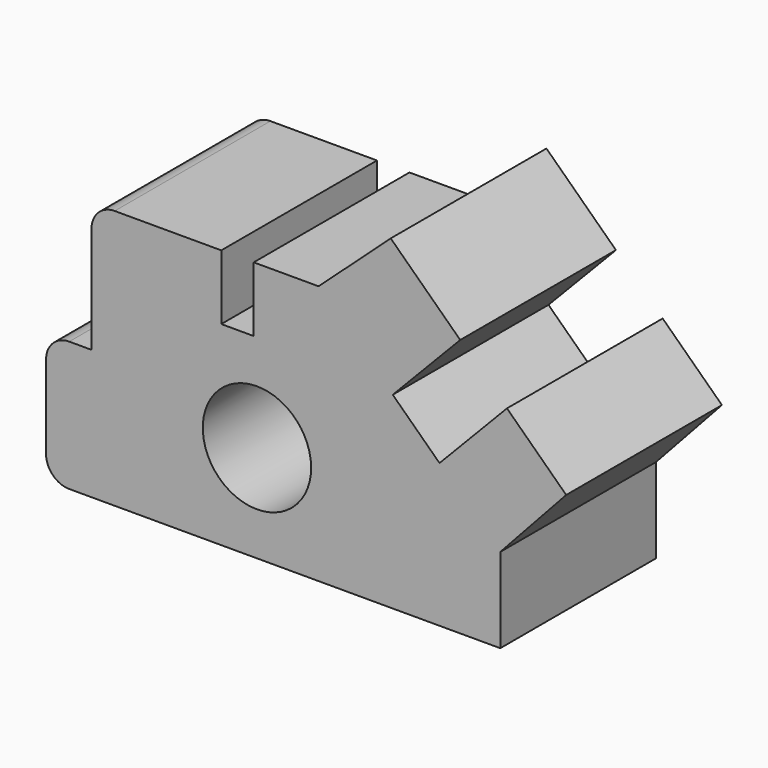
from build123d import *

# Parameters (mm, degrees)
F0_R     = 8.350726
F1_DEPTH = 30


with BuildPart() as f1:
    # F0 (on Front) → F1 (new body)
    with BuildSketch(Plane.XZ):
        with BuildLine():
            Line((-54.655215, -25.540138), (11.771582, -25.540138))
            Line((11.771582, -25.540138), (11.771582, -12.473472))
            Line((11.771582, -12.473472), (21.932656, -1.439317))
            Line((21.932656, -1.439317), (12.803844, 7.34173))
            Line((12.803844, 7.34173), (2.407616, -3.466229))
            Line((2.407616, -3.466229), (-4.799395, 3.466229))
            Line((-4.799395, 3.466229), (5.599293, 14.276747))
            Line((5.599293, 14.276747), (-5.112314, 24.580292))
            Line((-5.112314, 24.580292), (-16.22842, 14.459862))
            Line((-16.22842, 14.459862), (-26.22842, 14.459862))
            Line((-26.22842, 14.459862), (-26.22842, 4.459862))
            Line((-26.22842, 4.459862), (-31.22842, 4.459862))
            Line((-31.22842, 4.459862), (-31.22842, 14.459862))
            Line((-31.22842, 14.459862), (-47.655217, 14.459862))
            ThreePointArc((-47.655217, 14.459862), (-50.181853, 13.413295), (-51.22842, 10.886659))
            Line((-51.22842, 10.886659), (-51.22842, -5.540138))
            Line((-51.22842, -5.540138), (-54.655215, -5.540138))
            ThreePointArc((-54.655215, -5.540138), (-57.181851, -6.586705), (-58.228418, -9.113341))
            Line((-58.228418, -9.113341), (-58.228418, -21.966935))
            ThreePointArc((-58.228418, -21.966935), (-57.181851, -24.493571), (-54.655215, -25.540138))
        make_face()
        with Locations((-25.728418, -10.540138)):
            Circle(F0_R, mode=Mode.SUBTRACT)
    extrude(amount=F1_DEPTH)


solid = f1.part
